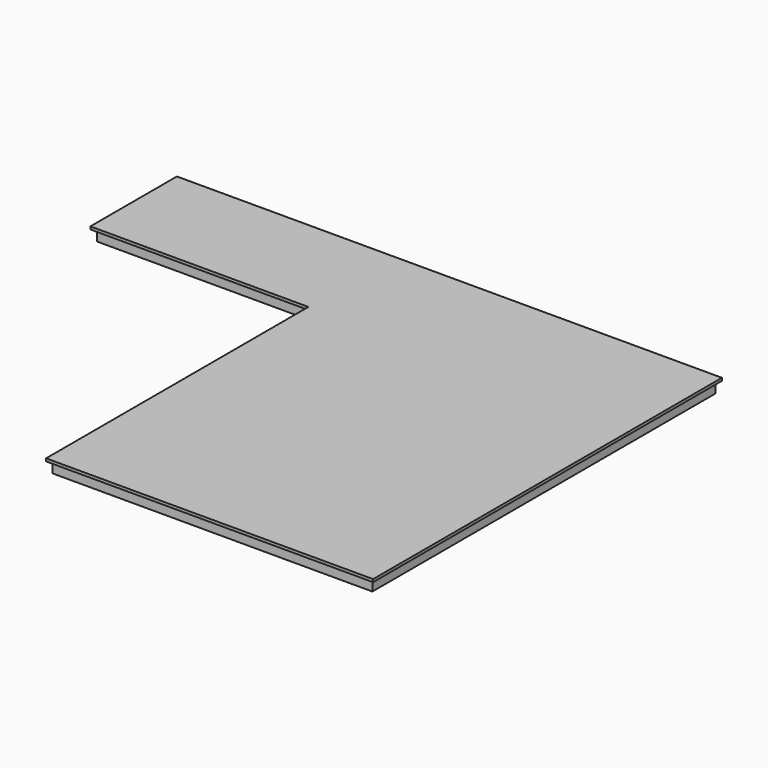
from build123d import *

# Parameters (mm, degrees)
F1_DEPTH = 38.1
F2_W     = 4470.1968
F2_H     = 5994.2984
F2_W_2   = 4393.9968
F2_H_2   = 5918.0984
F3_DEPTH = 152.4
F4_W     = 3048
F4_H     = 1410.348555
F4_W_2   = 2971.8
F4_H_2   = 1334.148555
F5_DEPTH = 152.4


with BuildPart() as f1:
    # F0 (on Top) → F1 (new body)
    with BuildSketch(Plane.XY):
        Polygon((5195.49572, -166.075737), (623.49572, -166.075737), (-2424.50428, -166.075737), (-2424.50428, -1678.024292), (623.49572, -1678.024292), (623.49572, -6262.075737), (5195.49572, -6262.075737), align=None)
    extrude(amount=F1_DEPTH)

    # F2 (on face) → F3 (join)
    with BuildSketch(Plane(origin=(0, 0, 0), x_dir=(1, 0, 0), z_dir=(0, 0, -1))):
        with Locations((2909.49572, 3214.024937)):
            Rectangle(F2_W, F2_H)
        with Locations((2909.49572, 3214.024937)):
            Rectangle(F2_W_2, F2_H_2, mode=Mode.SUBTRACT)
    extrude(amount=F3_DEPTH)

    # F4 (on face) → F5 (join, through all)
    with BuildSketch(Plane(origin=(0, 0, 0), x_dir=(1, 0, 0), z_dir=(0, 0, -1))):
        with Locations((-849.60268, 922.050014)):
            Rectangle(F4_W, F4_H)
        with Locations((-849.60268, 922.050014)):
            Rectangle(F4_W_2, F4_H_2, mode=Mode.SUBTRACT)
    extrude(amount=F5_DEPTH)


solid = f1.part
